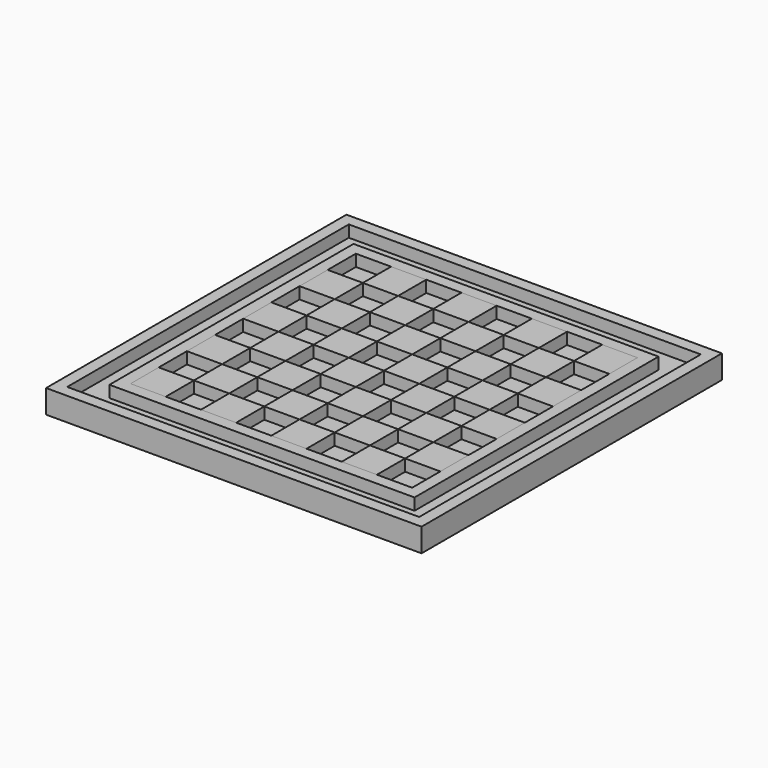
from build123d import *

# Parameters (mm, degrees)
F0_W     = 101.6
F0_H     = 101.6
F1_DEPTH = 6.35
F2_W     = 95.25
F2_H     = 95.25
F2_W_2   = 82.55
F2_H_2   = 82.55
F3_DEPTH = 3.175
F2_W_3   = 76.2
F2_H_3   = 76.2
F4_DEPTH = 3.175
F5_W     = 9.525
F5_H     = 9.525
F6_DEPTH = 3.175


with BuildPart() as f1:
    # F0 (on Top) → F1 (new body)
    with BuildSketch(Plane.XY):
        Rectangle(F0_W, F0_H)
    extrude(amount=F1_DEPTH)

    # F2 (on face) → F3 (cut)
    with BuildSketch(Plane.XY.offset(6.35)):
        Rectangle(F2_W, F2_H)
        Rectangle(F2_W_2, F2_H_2, mode=Mode.SUBTRACT)
    extrude(amount=-F3_DEPTH, mode=Mode.SUBTRACT)

    # F2 (on face) → F4 (cut)
    with BuildSketch(Plane.XY.offset(6.35)):
        Rectangle(F2_W_3, F2_H_3)
    extrude(amount=-F4_DEPTH, mode=Mode.SUBTRACT)


with BuildPart() as f6:
    # F5 (on face) → F6 (new body)
    with BuildSketch(Plane.XY.offset(3.175)):
        with Locations((23.8125, -33.3375)):
            Rectangle(F5_W, F5_H)
    extrude(amount=F6_DEPTH)


with BuildPart() as f6b:
    # F5 (on face) → F6, piece 2 (new body)
    with BuildSketch(Plane.XY.offset(3.175)):
        with Locations((4.7625, -33.3375)):
            Rectangle(F5_W, F5_H)
    extrude(amount=F6_DEPTH)


with BuildPart() as f6c:
    # F5 (on face) → F6, piece 3 (new body)
    with BuildSketch(Plane.XY.offset(3.175)):
        with Locations((-14.2875, -33.3375)):
            Rectangle(F5_W, F5_H)
    extrude(amount=F6_DEPTH)


with BuildPart() as f6d:
    # F5 (on face) → F6, piece 4 (new body)
    with BuildSketch(Plane.XY.offset(3.175)):
        with Locations((-33.3375, -33.3375)):
            Rectangle(F5_W, F5_H)
    extrude(amount=F6_DEPTH)


with BuildPart() as f6e:
    # F5 (on face) → F6, piece 5 (new body)
    with BuildSketch(Plane.XY.offset(3.175)):
        with Locations((-23.8125, -23.8125)):
            Rectangle(F5_W, F5_H)
    extrude(amount=F6_DEPTH)


with BuildPart() as f6f:
    # F5 (on face) → F6, piece 6 (new body)
    with BuildSketch(Plane.XY.offset(3.175)):
        with Locations((-33.3375, -14.2875)):
            Rectangle(F5_W, F5_H)
    extrude(amount=F6_DEPTH)


with BuildPart() as f6g:
    # F5 (on face) → F6, piece 7 (new body)
    with BuildSketch(Plane.XY.offset(3.175)):
        with Locations((-14.2875, -14.2875)):
            Rectangle(F5_W, F5_H)
    extrude(amount=F6_DEPTH)


with BuildPart() as f6h:
    # F5 (on face) → F6, piece 8 (new body)
    with BuildSketch(Plane.XY.offset(3.175)):
        with Locations((-23.8125, -4.7625)):
            Rectangle(F5_W, F5_H)
    extrude(amount=F6_DEPTH)


with BuildPart() as f6i:
    # F5 (on face) → F6, piece 9 (new body)
    with BuildSketch(Plane.XY.offset(3.175)):
        with Locations((-33.3375, 4.7625)):
            Rectangle(F5_W, F5_H)
    extrude(amount=F6_DEPTH)


with BuildPart() as f6j:
    # F5 (on face) → F6, piece 10 (new body)
    with BuildSketch(Plane.XY.offset(3.175)):
        with Locations((-14.2875, 4.7625)):
            Rectangle(F5_W, F5_H)
    extrude(amount=F6_DEPTH)


with BuildPart() as f6k:
    # F5 (on face) → F6, piece 11 (new body)
    with BuildSketch(Plane.XY.offset(3.175)):
        with Locations((-23.8125, 14.2875)):
            Rectangle(F5_W, F5_H)
    extrude(amount=F6_DEPTH)


with BuildPart() as f6l:
    # F5 (on face) → F6, piece 12 (new body)
    with BuildSketch(Plane.XY.offset(3.175)):
        with Locations((-33.3375, 23.8125)):
            Rectangle(F5_W, F5_H)
    extrude(amount=F6_DEPTH)


with BuildPart() as f6m:
    # F5 (on face) → F6, piece 13 (new body)
    with BuildSketch(Plane.XY.offset(3.175)):
        with Locations((-14.2875, 23.8125)):
            Rectangle(F5_W, F5_H)
    extrude(amount=F6_DEPTH)


with BuildPart() as f6n:
    # F5 (on face) → F6, piece 14 (new body)
    with BuildSketch(Plane.XY.offset(3.175)):
        with Locations((-23.8125, 33.3375)):
            Rectangle(F5_W, F5_H)
    extrude(amount=F6_DEPTH)


with BuildPart() as f6o:
    # F5 (on face) → F6, piece 15 (new body)
    with BuildSketch(Plane.XY.offset(3.175)):
        with Locations((-4.7625, 33.3375)):
            Rectangle(F5_W, F5_H)
    extrude(amount=F6_DEPTH)


with BuildPart() as f6p:
    # F5 (on face) → F6, piece 16 (new body)
    with BuildSketch(Plane.XY.offset(3.175)):
        with Locations((4.7625, 23.8125)):
            Rectangle(F5_W, F5_H)
    extrude(amount=F6_DEPTH)


with BuildPart() as f6q:
    # F5 (on face) → F6, piece 17 (new body)
    with BuildSketch(Plane.XY.offset(3.175)):
        with Locations((-4.7625, 14.2875)):
            Rectangle(F5_W, F5_H)
    extrude(amount=F6_DEPTH)


with BuildPart() as f6r:
    # F5 (on face) → F6, piece 18 (new body)
    with BuildSketch(Plane.XY.offset(3.175)):
        with Locations((4.7625, 4.7625)):
            Rectangle(F5_W, F5_H)
    extrude(amount=F6_DEPTH)


with BuildPart() as f6s:
    # F5 (on face) → F6, piece 19 (new body)
    with BuildSketch(Plane.XY.offset(3.175)):
        with Locations((-4.7625, -4.7625)):
            Rectangle(F5_W, F5_H)
    extrude(amount=F6_DEPTH)


with BuildPart() as f6t:
    # F5 (on face) → F6, piece 20 (new body)
    with BuildSketch(Plane.XY.offset(3.175)):
        with Locations((4.7625, -14.2875)):
            Rectangle(F5_W, F5_H)
    extrude(amount=F6_DEPTH)


with BuildPart() as f6u:
    # F5 (on face) → F6, piece 21 (new body)
    with BuildSketch(Plane.XY.offset(3.175)):
        with Locations((-4.7625, -23.8125)):
            Rectangle(F5_W, F5_H)
    extrude(amount=F6_DEPTH)


with BuildPart() as f6v:
    # F5 (on face) → F6, piece 22 (new body)
    with BuildSketch(Plane.XY.offset(3.175)):
        with Locations((14.2875, -23.8125)):
            Rectangle(F5_W, F5_H)
    extrude(amount=F6_DEPTH)


with BuildPart() as f6w:
    # F5 (on face) → F6, piece 23 (new body)
    with BuildSketch(Plane.XY.offset(3.175)):
        with Locations((23.8125, -14.2875)):
            Rectangle(F5_W, F5_H)
    extrude(amount=F6_DEPTH)


with BuildPart() as f6x:
    # F5 (on face) → F6, piece 24 (new body)
    with BuildSketch(Plane.XY.offset(3.175)):
        with Locations((14.2875, -4.7625)):
            Rectangle(F5_W, F5_H)
    extrude(amount=F6_DEPTH)


with BuildPart() as f6y:
    # F5 (on face) → F6, piece 25 (new body)
    with BuildSketch(Plane.XY.offset(3.175)):
        with Locations((23.8125, 4.7625)):
            Rectangle(F5_W, F5_H)
    extrude(amount=F6_DEPTH)


with BuildPart() as f6z:
    # F5 (on face) → F6, piece 26 (new body)
    with BuildSketch(Plane.XY.offset(3.175)):
        with Locations((14.2875, 14.2875)):
            Rectangle(F5_W, F5_H)
    extrude(amount=F6_DEPTH)


with BuildPart() as f6ba:
    # F5 (on face) → F6, piece 27 (new body)
    with BuildSketch(Plane.XY.offset(3.175)):
        with Locations((23.8125, 23.8125)):
            Rectangle(F5_W, F5_H)
    extrude(amount=F6_DEPTH)


with BuildPart() as f6bb:
    # F5 (on face) → F6, piece 28 (new body)
    with BuildSketch(Plane.XY.offset(3.175)):
        with Locations((14.2875, 33.3375)):
            Rectangle(F5_W, F5_H)
    extrude(amount=F6_DEPTH)


with BuildPart() as f6bc:
    # F5 (on face) → F6, piece 29 (new body)
    with BuildSketch(Plane.XY.offset(3.175)):
        with Locations((33.3375, 33.3375)):
            Rectangle(F5_W, F5_H)
    extrude(amount=F6_DEPTH)


with BuildPart() as f6bd:
    # F5 (on face) → F6, piece 30 (new body)
    with BuildSketch(Plane.XY.offset(3.175)):
        with Locations((33.3375, 14.2875)):
            Rectangle(F5_W, F5_H)
    extrude(amount=F6_DEPTH)


with BuildPart() as f6be:
    # F5 (on face) → F6, piece 31 (new body)
    with BuildSketch(Plane.XY.offset(3.175)):
        with Locations((33.3375, -4.7625)):
            Rectangle(F5_W, F5_H)
    extrude(amount=F6_DEPTH)


with BuildPart() as f6bf:
    # F5 (on face) → F6, piece 32 (new body)
    with BuildSketch(Plane.XY.offset(3.175)):
        with Locations((33.3375, -23.8125)):
            Rectangle(F5_W, F5_H)
    extrude(amount=F6_DEPTH)


solid = Compound([f1.part, f6.part, f6b.part, f6c.part, f6d.part, f6e.part, f6f.part, f6g.part, f6h.part, f6i.part, f6j.part, f6k.part, f6l.part, f6m.part, f6n.part, f6o.part, f6p.part, f6q.part, f6r.part, f6s.part, f6t.part, f6u.part, f6v.part, f6w.part, f6x.part, f6y.part, f6z.part, f6ba.part, f6bb.part, f6bc.part, f6bd.part, f6be.part, f6bf.part])
